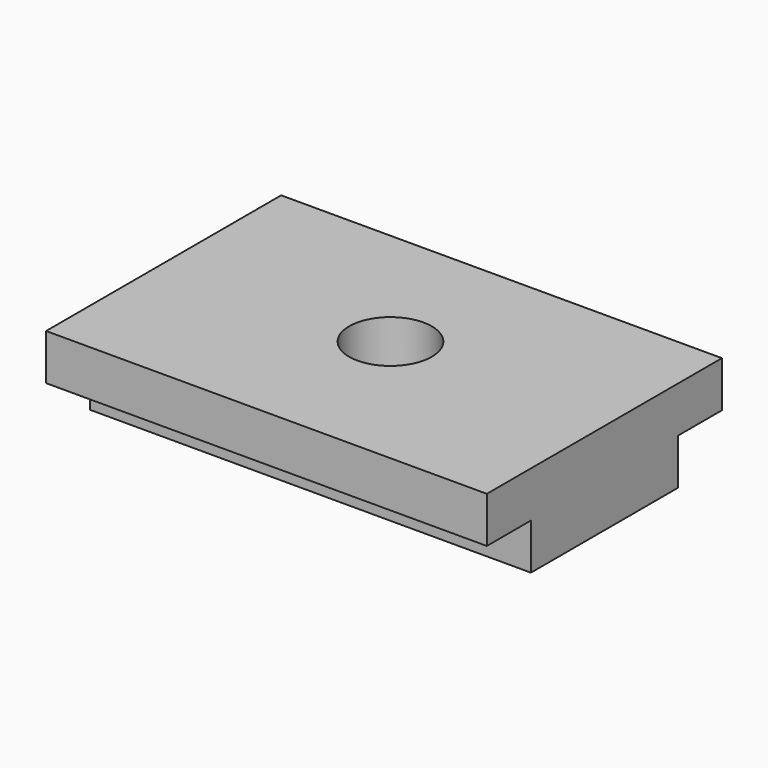
from build123d import *

# Parameters (mm, degrees)
F0_W     = 152.4
F0_H     = 63.5
F1_DEPTH = 31.75
F3_W     = 152.4
F3_H     = 15.875
F4_DEPTH = 19.05
F2_W     = 152.4
F2_H     = 15.875
F5_DEPTH = 19.05
F7_R     = 14.2875
F8_DEPTH = 31.751


with BuildPart() as f1:
    # F0 (on Top) → F1 (new body)
    with BuildSketch(Plane.XY):
        with Locations((1.061699, -22.131501)):
            Rectangle(F0_W, F0_H)
    extrude(amount=F1_DEPTH)

    # F3 (on face) → F4 (join)
    with BuildSketch(Plane.XZ.offset(53.881501)):
        with Locations((1.061699, 23.8125)):
            Rectangle(F3_W, F3_H)
    extrude(amount=F4_DEPTH)

    # F2 (on face) → F5 (join)
    with BuildSketch(Plane(origin=(0, 9.618499, 0), x_dir=(-1, 0, 0), z_dir=(0, 1, 0))):
        with Locations((-1.061699, 23.8125)):
            Rectangle(F2_W, F2_H)
    extrude(amount=F5_DEPTH)

    # F7 (on face) → F8 (cut, through all)
    with BuildSketch(Plane(origin=(0, 0, 0), x_dir=(1, 0, 0), z_dir=(0, 0, -1))):
        with Locations((1.310549, 19.654326)):
            Circle(F7_R)
    extrude(amount=-F8_DEPTH, mode=Mode.SUBTRACT)


solid = f1.part
